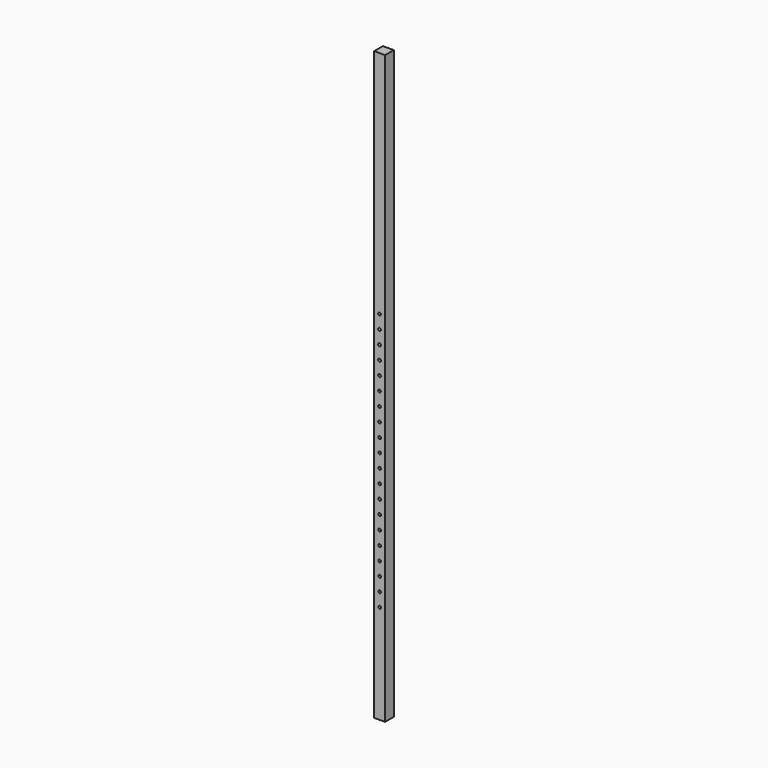
from build123d import *

# Parameters (mm, degrees)
F0_W     = 50.8
F0_H     = 2743.2
F0_R     = 6.35
F1_DEPTH = 25.4
F2_DEPTH = 25.4


with BuildPart() as f1:
    # F0 (on Front) → F1 (new body, symmetric)
    with BuildSketch(Plane.XZ):
        with Locations((-57.955327, 699.83944)):
            Rectangle(F0_W, F0_H)
        with Locations((-57.955327, 236.28944)):
            Circle(F0_R, mode=Mode.SUBTRACT)
        with Locations((-58.514488, 553.786978)):
            Circle(F0_R, mode=Mode.SUBTRACT)
        with Locations((-58.514488, 617.286978)):
            Circle(F0_R, mode=Mode.SUBTRACT)
        with Locations((-58.514488, 680.786978)):
            Circle(F0_R, mode=Mode.SUBTRACT)
        with Locations((-57.955327, -208.21056)):
            Circle(F0_R, mode=Mode.SUBTRACT)
        with Locations((-57.955327, -144.71056)):
            Circle(F0_R, mode=Mode.SUBTRACT)
        with Locations((-57.955327, -81.21056)):
            Circle(F0_R, mode=Mode.SUBTRACT)
        with Locations((-57.955327, -17.71056)):
            Circle(F0_R, mode=Mode.SUBTRACT)
        with Locations((-57.955327, 45.78944)):
            Circle(F0_R, mode=Mode.SUBTRACT)
        with Locations((-57.955327, 109.28944)):
            Circle(F0_R, mode=Mode.SUBTRACT)
        with Locations((-57.955327, 172.78944)):
            Circle(F0_R, mode=Mode.SUBTRACT)
        with Locations((-57.955327, 299.78944)):
            Circle(F0_R, mode=Mode.SUBTRACT)
        with Locations((-57.955327, 363.28944)):
            Circle(F0_R, mode=Mode.SUBTRACT)
        with Locations((-57.955327, 426.78944)):
            Circle(F0_R, mode=Mode.SUBTRACT)
        with Locations((-57.955327, 490.28944)):
            Circle(F0_R, mode=Mode.SUBTRACT)
        with Locations((-58.514488, 744.286978)):
            Circle(F0_R, mode=Mode.SUBTRACT)
        with Locations((-58.514488, 807.786978)):
            Circle(F0_R, mode=Mode.SUBTRACT)
        with Locations((-58.514488, 871.286978)):
            Circle(F0_R, mode=Mode.SUBTRACT)
        with Locations((-58.514488, 934.786978)):
            Circle(F0_R, mode=Mode.SUBTRACT)
        with Locations((-58.514488, 998.286978)):
            Circle(F0_R, mode=Mode.SUBTRACT)
    extrude(amount=F1_DEPTH, both=True)

    # F0 (on Front) → F2 (join, symmetric)
    with BuildSketch(Plane.XZ):
        with Locations((-57.955327, 699.83944)):
            Rectangle(F0_W, F0_H)
        with Locations((-57.955327, 236.28944)):
            Circle(F0_R, mode=Mode.SUBTRACT)
        with Locations((-58.514488, 553.786978)):
            Circle(F0_R, mode=Mode.SUBTRACT)
        with Locations((-58.514488, 617.286978)):
            Circle(F0_R, mode=Mode.SUBTRACT)
        with Locations((-58.514488, 680.786978)):
            Circle(F0_R, mode=Mode.SUBTRACT)
        with Locations((-57.955327, -208.21056)):
            Circle(F0_R, mode=Mode.SUBTRACT)
        with Locations((-57.955327, -144.71056)):
            Circle(F0_R, mode=Mode.SUBTRACT)
        with Locations((-57.955327, -81.21056)):
            Circle(F0_R, mode=Mode.SUBTRACT)
        with Locations((-57.955327, -17.71056)):
            Circle(F0_R, mode=Mode.SUBTRACT)
        with Locations((-57.955327, 45.78944)):
            Circle(F0_R, mode=Mode.SUBTRACT)
        with Locations((-57.955327, 109.28944)):
            Circle(F0_R, mode=Mode.SUBTRACT)
        with Locations((-57.955327, 172.78944)):
            Circle(F0_R, mode=Mode.SUBTRACT)
        with Locations((-57.955327, 299.78944)):
            Circle(F0_R, mode=Mode.SUBTRACT)
        with Locations((-57.955327, 363.28944)):
            Circle(F0_R, mode=Mode.SUBTRACT)
        with Locations((-57.955327, 426.78944)):
            Circle(F0_R, mode=Mode.SUBTRACT)
        with Locations((-57.955327, 490.28944)):
            Circle(F0_R, mode=Mode.SUBTRACT)
        with Locations((-58.514488, 744.286978)):
            Circle(F0_R, mode=Mode.SUBTRACT)
        with Locations((-58.514488, 807.786978)):
            Circle(F0_R, mode=Mode.SUBTRACT)
        with Locations((-58.514488, 871.286978)):
            Circle(F0_R, mode=Mode.SUBTRACT)
        with Locations((-58.514488, 934.786978)):
            Circle(F0_R, mode=Mode.SUBTRACT)
        with Locations((-58.514488, 998.286978)):
            Circle(F0_R, mode=Mode.SUBTRACT)
    extrude(amount=F2_DEPTH, both=True)


solid = f1.part
